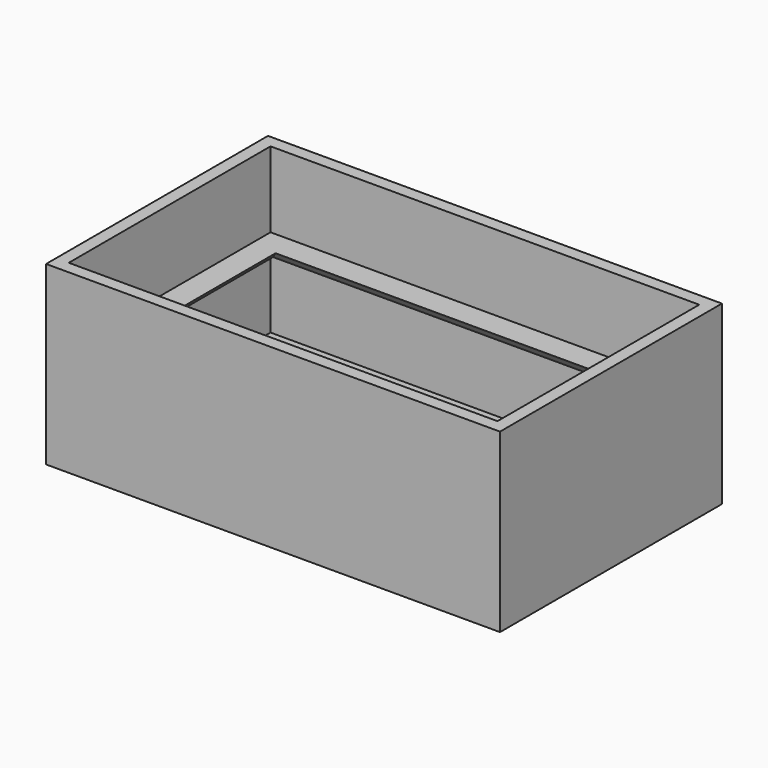
from build123d import *

# Parameters (mm, degrees)
F1_W     = 180
F1_H     = 110
F1_W_2   = 170
F1_H_2   = 100
F2_DEPTH = 70
F0_W     = 180
F0_H     = 110
F3_DEPTH = 5
F5_W     = 170
F5_H     = 100
F5_W_2   = 160
F5_H_2   = 90
F6_DEPTH = 5
F6_TAPER = -45


with BuildPart() as f2:
    # F1 (on face) → F2 (new body)
    with BuildSketch(Plane.XY):
        Rectangle(F1_W, F1_H)
        Rectangle(F1_W_2, F1_H_2, mode=Mode.SUBTRACT)
    extrude(amount=F2_DEPTH)

    # F0 (on Top) → F3 (join)
    with BuildSketch(Plane.XY):
        Rectangle(F0_W, F0_H)
    extrude(amount=F3_DEPTH)

    # F5 (on offset) → F6 (join)
    with BuildSketch(Plane.XY.offset(35)):
        Rectangle(F5_W, F5_H)
        Rectangle(F5_W_2, F5_H_2, mode=Mode.SUBTRACT)
    extrude(amount=F6_DEPTH, taper=F6_TAPER)


solid = f2.part
